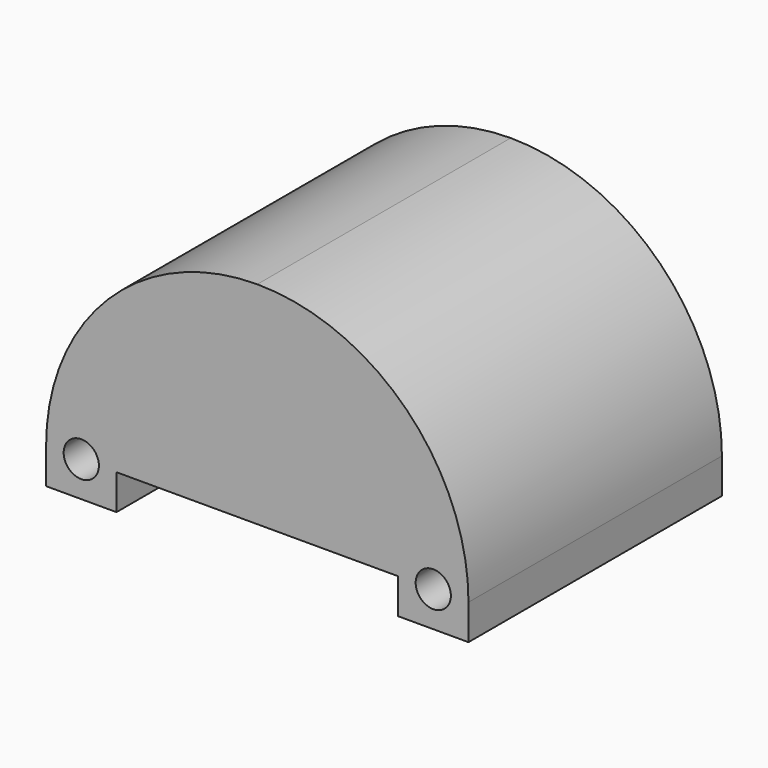
from build123d import *

# Parameters (mm, degrees)
F0_W     = 25.4
F0_H     = 28.575
F0_W_2   = 6.35
F1_DEPTH = 22.225
F2_W     = 25.4
F2_H     = 3.175
F2_R     = 1.5875
F3_DEPTH = 28.575


with BuildPart() as f1:
    # F0 (on Top) → F1 (new body)
    with BuildSketch(Plane.XY):
        Rectangle(F0_W, F0_H)
        with Locations((-15.875, 0)):
            Rectangle(F0_W_2, F0_H)
        with Locations((15.875, 0)):
            Rectangle(F0_W_2, F0_H)
    extrude(amount=F1_DEPTH)

    # F2 (on face) → F3 (cut)
    with BuildSketch(Plane.XZ.offset(14.2875)):
        with BuildLine():
            Line((19.05, 22.225), (0, 22.225))
            ThreePointArc((0, 22.225), (13.470384, 16.645384), (19.05, 3.175))
            Line((19.05, 3.175), (19.05, 22.225))
        make_face()
        with BuildLine():
            Line((-19.05, 22.225), (-19.05, 3.175))
            ThreePointArc((-19.05, 3.175), (-13.470384, 16.645384), (0, 22.225))
            Line((0, 22.225), (-19.05, 22.225))
        make_face()
        with Locations((0, 1.5875)):
            Rectangle(F2_W, F2_H)
        with Locations((-15.875, 3.175)):
            Circle(F2_R)
        with Locations((15.875, 3.175)):
            Circle(F2_R)
    extrude(amount=-F3_DEPTH, mode=Mode.SUBTRACT)


solid = f1.part
